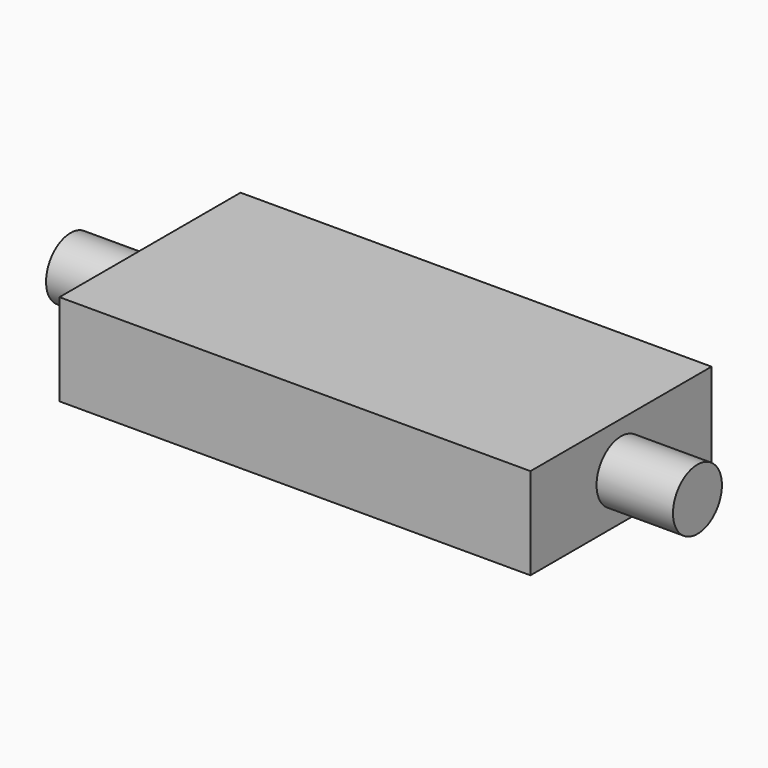
from build123d import *

# Parameters (mm, degrees)
F0_W          = 154
F0_H          = 74
F1_DEPTH      = 30
F2_R          = 10
F3_DEPTH      = 180
F3_DEPTH_BACK = 25


with BuildPart() as f1:
    # F0 (on Top) → F1 (new body)
    with BuildSketch(Plane.XY):
        Rectangle(F0_W, F0_H)
    extrude(amount=F1_DEPTH)

    # F2 (on face) → F3 (join, two sides)
    with BuildSketch(Plane.YZ.offset(77)) as f3_sk:
        with Locations((0, 15)):
            Circle(F2_R)
    extrude(amount=-F3_DEPTH)
    extrude(f3_sk.sketch, amount=F3_DEPTH_BACK)


solid = f1.part
